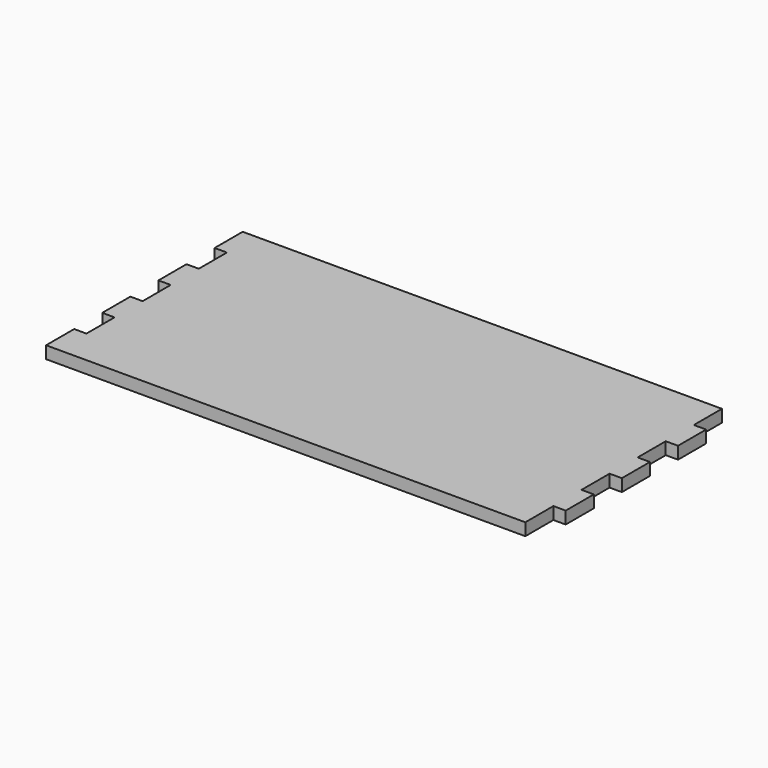
from build123d import *

# Parameters (mm, degrees)
F1_DEPTH = 3.175


with BuildPart() as f1:
    # F0 (on Top) → F1 (new body)
    with BuildSketch(Plane.XY):
        Polygon((0, 9.071429), (0, 0), (123.825, 0), (123.825, 9.071429), (127, 9.071429), (127, 18.142857), (123.825, 18.142857), (123.825, 27.214286), (127, 27.214286), (127, 36.285714), (123.825, 36.285714), (123.825, 45.357143), (127, 45.357143), (127, 54.428571), (123.825, 54.428571), (123.825, 63.5), (0, 63.5), (0, 54.428571), (3.175, 54.428571), (3.175, 45.357143), (0, 45.357143), (0, 36.285714), (3.175, 36.285714), (3.175, 27.214286), (0, 27.214286), (0, 18.142857), (3.175, 18.142857), (3.175, 9.071429), align=None)
    extrude(amount=F1_DEPTH)


solid = f1.part
